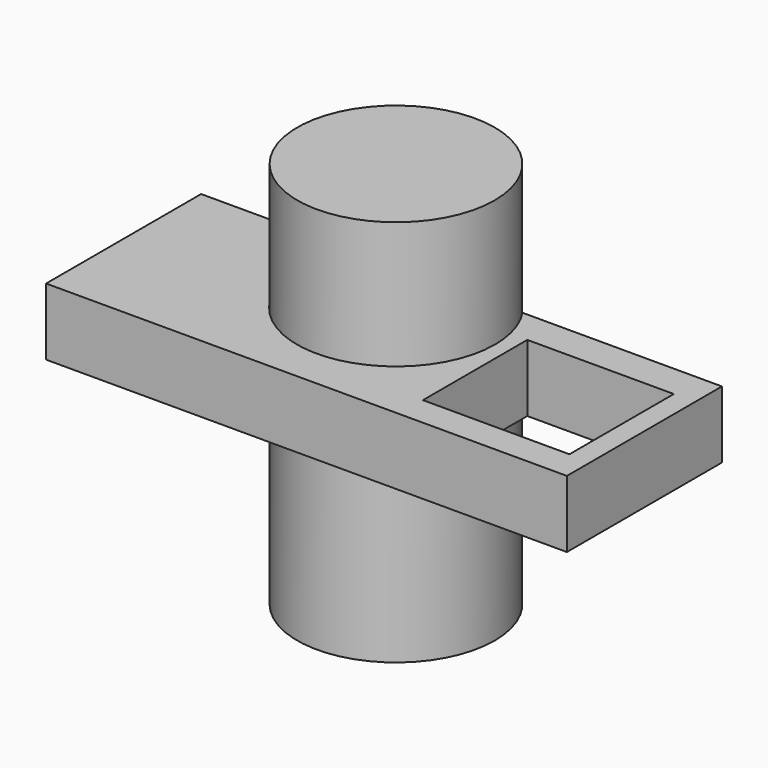
from build123d import *

# Parameters (mm, degrees)
F0_W          = 136.528157
F0_H          = 17.575454
F1_DEPTH      = 25.4
F1_DEPTH_BACK = 25.4
F3_DEPTH      = 25.4
F4_W          = 38.406905
F4_H          = 34.208939
F5_DEPTH      = 25.4
F6_R          = 25.883576
F7_DEPTH      = 50.8
F7_DEPTH_BACK = 50.8


with BuildPart() as f1:
    # F0 (on Front) → F1 (new body, two sides)
    with BuildSketch(Plane.XZ) as f1_sk:
        with Locations((26.155728, -8.787727)):
            Rectangle(F0_W, F0_H)
    extrude(amount=F1_DEPTH)
    extrude(f1_sk.sketch, amount=-F1_DEPTH_BACK)

    # F2 (on face) → F3 (cut)
    with BuildSketch(Plane.XY):
        with BuildLine():
            Line((-1.021694, 25.4), (42.14872, 25.4))
            ThreePointArc((42.14872, 25.4), (20.563513, 36.910687), (-1.021694, 25.4))
        make_face()
        with BuildLine():
            ThreePointArc((-1.021694, 25.4), (12.993788, -13.95066), (46.55749, 10.91671))
            ThreePointArc((46.55749, 10.91671), (45.430883, 18.486435), (42.14872, 25.4))
            Line((42.14872, 25.4), (-1.021694, 25.4))
        make_face()
    extrude(amount=-F3_DEPTH, mode=Mode.SUBTRACT)

    # F4 (on face) → F5 (cut)
    with BuildSketch(Plane.XY):
        with Locations((69.627972, -0.483111)):
            Rectangle(F4_W, F4_H)
    extrude(amount=-F5_DEPTH, mode=Mode.SUBTRACT)


with BuildPart() as f7:
    # F6 (on face) → F7 (new body, two sides)
    with BuildSketch(Plane(origin=(0, 0, -17.575454), x_dir=(1, 0, 0), z_dir=(0, 0, -1))) as f7_sk:
        with Locations((20.563513, -10.91671)):
            Circle(F6_R)
    extrude(amount=F7_DEPTH)
    extrude(f7_sk.sketch, amount=-F7_DEPTH_BACK)


solid = Compound([f1.part, f7.part])
